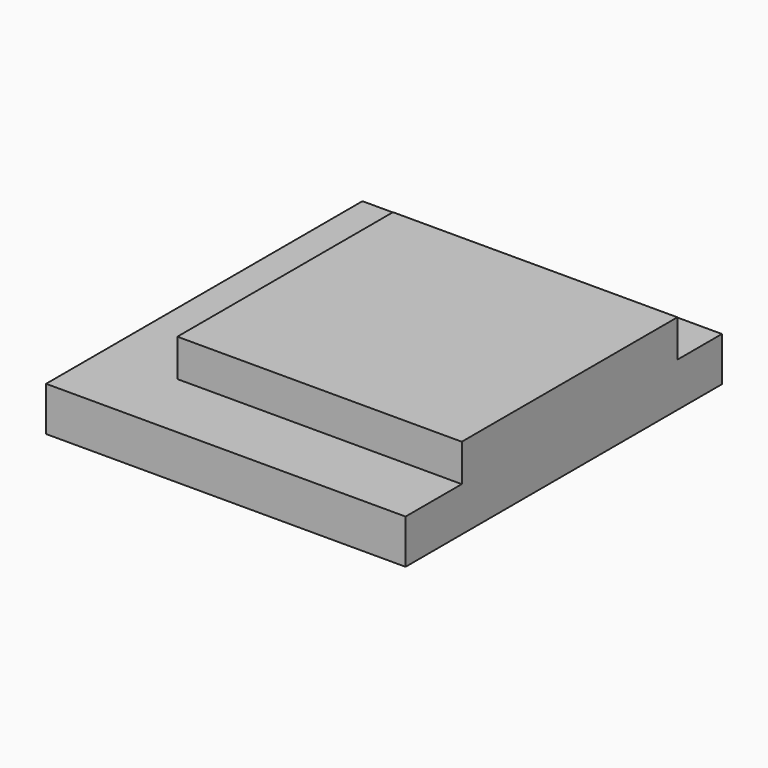
from build123d import *

# Parameters (mm, degrees)
F0_W     = 130
F0_H     = 143
F1_DEPTH = 29.5
F3_DEPTH = 13.5


with BuildPart() as f1:
    # F0 (on Top) → F1 (new body)
    with BuildSketch(Plane.XY):
        Rectangle(F0_W, F0_H)
    extrude(amount=F1_DEPTH)

    # F2 (on face) → F3 (cut)
    with BuildSketch(Plane.XY.offset(29.5)):
        Polygon((-37.84842, 51.365882), (65, 51.365882), (65, 71.5), (-65, 71.5), (-65, -71.5), (65, -71.5), (65, -46.1), (-37.84842, -46.1), align=None)
    extrude(amount=-F3_DEPTH, mode=Mode.SUBTRACT)


solid = f1.part
